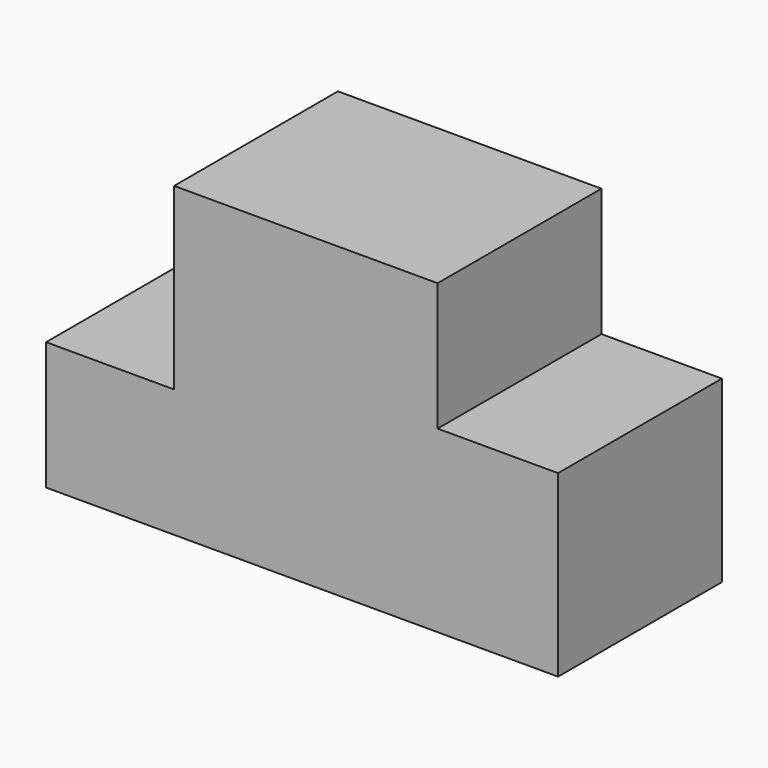
from build123d import *

# Parameters (mm, degrees)
F0_W     = 100.000054
F0_H     = 59.99988
F1_DEPTH = 39.99992
F2_W     = 23.5305579296
F2_H     = 25.0000008
F2_W_2   = 25.0000008
F2_H_2   = 34.99993
F3_DEPTH = 40.00092


with BuildPart() as f1:
    # F0 (on Front) → F1 (new body)
    with BuildSketch(Plane.XZ):
        with Locations((3.9102658629, -8.0880385926)):
            Rectangle(F0_W, F0_H)
    extrude(amount=F1_DEPTH)

    # F2 (on face) → F3 (cut, through all)
    with BuildSketch(Plane.XZ.offset(39.99992)):
        with Locations((42.1450138982, 9.4119010074)):
            Rectangle(F2_W, F2_H)
        with Locations((-33.5897607371, 4.4119364074)):
            Rectangle(F2_W_2, F2_H_2)
    extrude(amount=-F3_DEPTH, mode=Mode.SUBTRACT)


solid = f1.part
